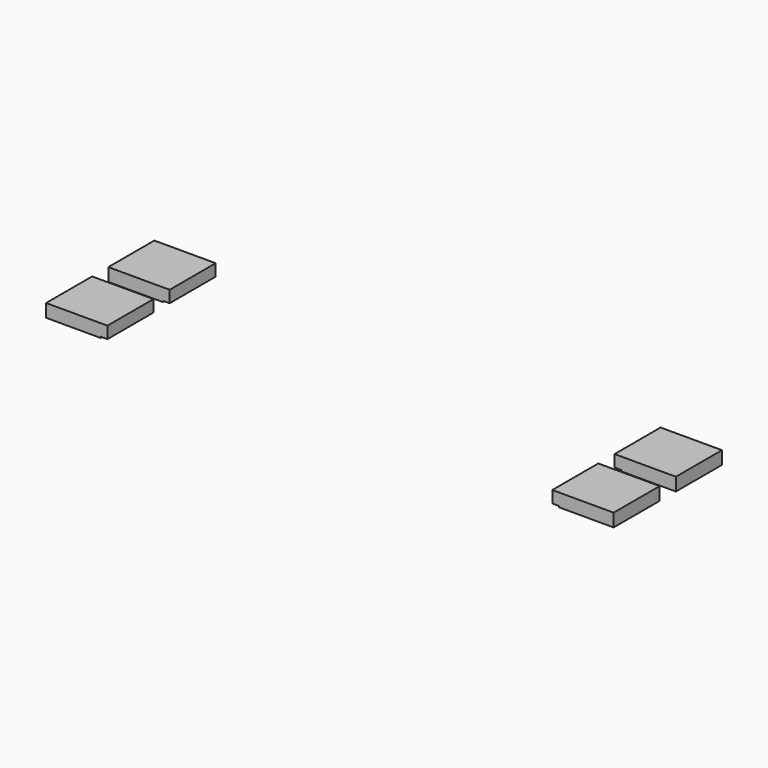
from build123d import *

# Parameters (mm, degrees)
SKETCH013_W             = 30
SKETCH013_H             = 32
PAD003_DEPTH            = 6.8
SKETCH014_W             = 30
SKETCH014_H             = 3.5
POCKET003_DEPTH         = 0.6
BODY003_ROLL_ANGLE      = 180
BODY003_PLACEMENT_ANGLE = 90
SKETCH015_W             = 30
SKETCH015_H             = 32
PAD004_DEPTH            = 6.8
SKETCH016_W             = 30
SKETCH016_H             = 3.5
POCKET004_DEPTH         = 0.6
BODY004_ROLL_ANGLE      = 180
BODY004_PLACEMENT_ANGLE = 90
SKETCH017_W             = 30
SKETCH017_H             = 32
PAD005_DEPTH            = 6.8
SKETCH018_W             = 30
SKETCH018_H             = 3.5
POCKET005_DEPTH         = 0.6
BODY005_ROLL_ANGLE      = 180
BODY005_PLACEMENT_ANGLE = -90
SKETCH019_W             = 30
SKETCH019_H             = 32
PAD006_DEPTH            = 6.8
SKETCH020_W             = 30
SKETCH020_H             = 3.5
POCKET006_DEPTH         = 0.6
BODY006_ROLL_ANGLE      = 180
BODY006_PLACEMENT_ANGLE = -90


with BuildPart() as body003:
    # Sketch013 → Pad003 (new body)
    with BuildSketch(Plane.XY):
        with Locations((15, 16)):
            Rectangle(SKETCH013_W, SKETCH013_H)
    extrude(amount=PAD003_DEPTH)

    # Sketch014 (on Face6 of Pad003) → Pocket003 (cut)
    with BuildSketch(Plane.XY.offset(6.8)):
        with Locations((15, 30.25)):
            Rectangle(SKETCH014_W, SKETCH014_H)
    extrude(amount=-POCKET003_DEPTH, mode=Mode.SUBTRACT)


with BuildPart() as body003_1:
    # Body003 roll: moved
    add(body003.part.rotate(Axis((0, 0, 0), (1, 0, 0)), BODY003_ROLL_ANGLE))


with BuildPart() as body003_2:
    # Body003 placement: moved
    add(body003_1.part.moved(Location((0, 172.1, 6.8))).rotate(Axis((0, 172.1, 6.8), (0, 0, 1)), BODY003_PLACEMENT_ANGLE))


with BuildPart() as body004:
    # Sketch015 → Pad004 (new body)
    with BuildSketch(Plane.XY):
        with Locations((15, 16)):
            Rectangle(SKETCH015_W, SKETCH015_H)
    extrude(amount=PAD004_DEPTH)

    # Sketch016 (on Face6 of Pad004) → Pocket004 (cut)
    with BuildSketch(Plane.XY.offset(6.8)):
        with Locations((15, 30.25)):
            Rectangle(SKETCH016_W, SKETCH016_H)
    extrude(amount=-POCKET004_DEPTH, mode=Mode.SUBTRACT)


with BuildPart() as body004_1:
    # Body004 roll: moved
    add(body004.part.rotate(Axis((0, 0, 0), (1, 0, 0)), BODY004_ROLL_ANGLE))


with BuildPart() as body004_2:
    # Body004 placement: moved
    add(body004_1.part.moved(Location((0, 131.55, 6.8))).rotate(Axis((0, 131.55, 6.8), (0, 0, 1)), BODY004_PLACEMENT_ANGLE))


with BuildPart() as body005:
    # Sketch017 → Pad005 (new body)
    with BuildSketch(Plane.XY):
        with Locations((15, 16)):
            Rectangle(SKETCH017_W, SKETCH017_H)
    extrude(amount=PAD005_DEPTH)

    # Sketch018 (on Face6 of Pad005) → Pocket005 (cut)
    with BuildSketch(Plane.XY.offset(6.8)):
        with Locations((15, 30.25)):
            Rectangle(SKETCH018_W, SKETCH018_H)
    extrude(amount=-POCKET005_DEPTH, mode=Mode.SUBTRACT)


with BuildPart() as body005_1:
    # Body005 roll: moved
    add(body005.part.rotate(Axis((0, 0, 0), (1, 0, 0)), BODY005_ROLL_ANGLE))


with BuildPart() as body005_2:
    # Body005 placement: moved
    add(body005_1.part.moved(Location((296, 202.14, 6.8))).rotate(Axis((296, 202.14, 6.8), (0, 0, 1)), BODY005_PLACEMENT_ANGLE))


with BuildPart() as body006:
    # Sketch019 → Pad006 (new body)
    with BuildSketch(Plane.XY):
        with Locations((15, 16)):
            Rectangle(SKETCH019_W, SKETCH019_H)
    extrude(amount=PAD006_DEPTH)

    # Sketch020 (on Face6 of Pad006) → Pocket006 (cut)
    with BuildSketch(Plane.XY.offset(6.8)):
        with Locations((15, 30.25)):
            Rectangle(SKETCH020_W, SKETCH020_H)
    extrude(amount=-POCKET006_DEPTH, mode=Mode.SUBTRACT)


with BuildPart() as body006_1:
    # Body006 roll: moved
    add(body006.part.rotate(Axis((0, 0, 0), (1, 0, 0)), BODY006_ROLL_ANGLE))


with BuildPart() as body006_2:
    # Body006 placement: moved
    add(body006_1.part.moved(Location((296, 161.55, 6.8))).rotate(Axis((296, 161.55, 6.8), (0, 0, 1)), BODY006_PLACEMENT_ANGLE))


solid = Compound([body003_2.part, body004_2.part, body005_2.part, body006_2.part])
